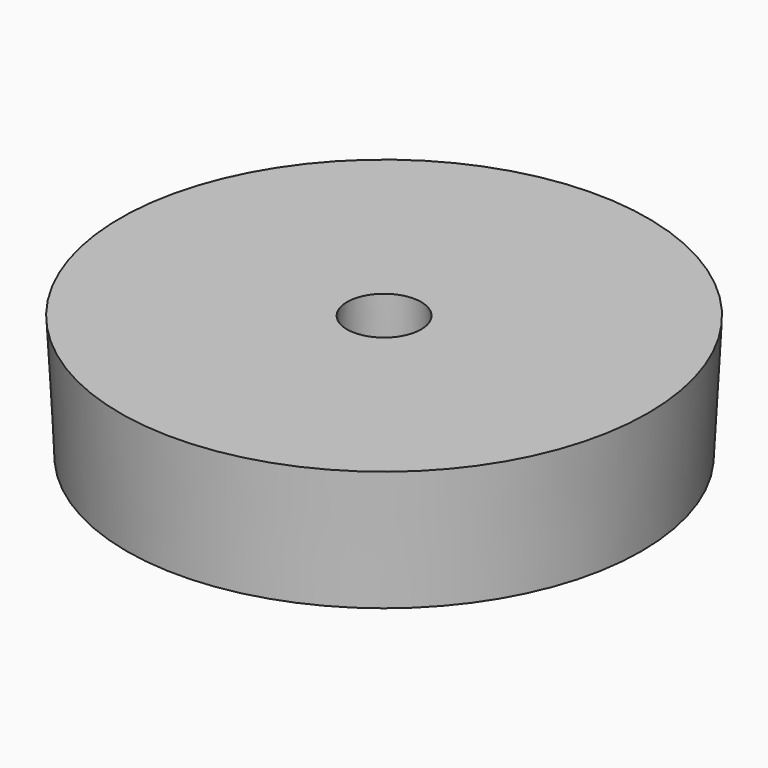
from build123d import *

# Parameters (mm, degrees)
F0_R     = 12.5
F0_R_2   = 2.1153420415
F1_DEPTH = 6
F1_TAPER = -3


with BuildPart() as f1:
    # F0 (on Top) → F1 (new body)
    with BuildSketch(Plane.XY):
        Circle(F0_R)
        Circle(F0_R_2, mode=Mode.SUBTRACT)
    extrude(amount=F1_DEPTH, taper=F1_TAPER)


solid = f1.part
